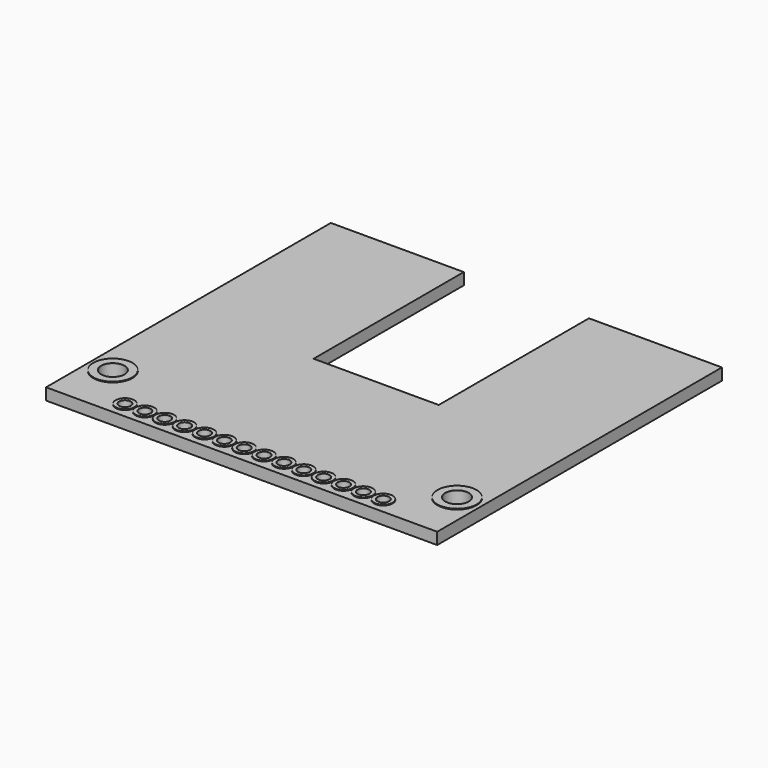
from build123d import *

# Parameters (mm, degrees)
F0_W      = 50
F0_H      = 86
F0_R      = 1.5
F1_DEPTH  = 1.5
F2_R      = 0.75
F3_DEPTH  = 1.501
F4_W      = 46
F4_H      = 34
F5_DEPTH  = 1.501
F6_W      = 50
F6_H      = 40.5
F7_DEPTH  = 25
F8_R      = 2.5
F8_R_2    = 1.5
F9_DEPTH  = 0.1
F10_R     = 1.2
F10_R_2   = 0.75
F11_DEPTH = 0.1
F12_W     = 16
F12_H     = 24
F13_DEPTH = 25


with BuildPart() as f1:
    # F0 (on Top) → F1 (new body)
    with BuildSketch(Plane.XY):
        Rectangle(F0_W, F0_H)
        with Locations((-22, -36.08)):
            Circle(F0_R, mode=Mode.SUBTRACT)
        with Locations((22, -36.08)):
            Circle(F0_R, mode=Mode.SUBTRACT)
        with Locations((-22, 40)):
            Circle(F0_R, mode=Mode.SUBTRACT)
        with Locations((22, 40)):
            Circle(F0_R, mode=Mode.SUBTRACT)
    extrude(amount=F1_DEPTH)

    # F2 (on face) → F3 (cut, through all)
    with BuildSketch(Plane.XY.offset(1.5)):
        with Locations((-16.51, -41)):
            Circle(F2_R)
        with Locations((-13.97, -41)):
            Circle(F2_R)
        with Locations((-11.43, -41)):
            Circle(F2_R)
        with Locations((-8.89, -41)):
            Circle(F2_R)
        with Locations((-6.35, -41)):
            Circle(F2_R)
        with Locations((-3.81, -41)):
            Circle(F2_R)
        with Locations((-1.27, -41)):
            Circle(F2_R)
        with Locations((1.27, -41)):
            Circle(F2_R)
        with Locations((3.81, -41)):
            Circle(F2_R)
        with Locations((6.35, -41)):
            Circle(F2_R)
        with Locations((8.89, -41)):
            Circle(F2_R)
        with Locations((11.43, -41)):
            Circle(F2_R)
        with Locations((13.97, -41)):
            Circle(F2_R)
        with Locations((16.51, -41)):
            Circle(F2_R)
        with Locations((-3.81, 40)):
            Circle(F2_R)
        with Locations((-1.27, 40)):
            Circle(F2_R)
        with Locations((1.27, 40)):
            Circle(F2_R)
        with Locations((3.81, 40)):
            Circle(F2_R)
    extrude(amount=-F3_DEPTH, mode=Mode.SUBTRACT)

    # F4 (on face) → F5 (cut, through all)
    with BuildSketch(Plane.XY.offset(1.5)):
        with Locations((0, 19.5)):
            Rectangle(F4_W, F4_H)
    extrude(amount=-F5_DEPTH, mode=Mode.SUBTRACT)

    # F6 (on face) → F7 (cut)
    with BuildSketch(Plane.XY.offset(1.5)):
        with Locations((0, 22.75)):
            Rectangle(F6_W, F6_H)
    extrude(amount=-F7_DEPTH, mode=Mode.SUBTRACT)

    # F12 (on face) → F13 (cut)
    with BuildSketch(Plane.XY.offset(1.5)):
        with Locations((0, -9.5)):
            Rectangle(F12_W, F12_H)
    extrude(amount=-F13_DEPTH, mode=Mode.SUBTRACT)


with BuildPart() as f9:
    # F8 (on face) → F9 (new body)
    with BuildSketch(Plane.XY.offset(1.5)):
        with Locations((-22, -36.08)):
            Circle(F8_R)
        with Locations((-22, -36.08)):
            Circle(F8_R_2, mode=Mode.SUBTRACT)
        with Locations((22, -36.08)):
            Circle(F8_R)
        with Locations((22, -36.08)):
            Circle(F8_R_2, mode=Mode.SUBTRACT)
    extrude(amount=F9_DEPTH)


with BuildPart() as f11:
    # F10 (on face) → F11 (new body)
    with BuildSketch(Plane.XY.offset(1.5)):
        with Locations((-16.51, -41)):
            Circle(F10_R)
        with Locations((-16.51, -41)):
            Circle(F10_R_2, mode=Mode.SUBTRACT)
        with Locations((-13.97, -41)):
            Circle(F10_R)
        with Locations((-13.97, -41)):
            Circle(F10_R_2, mode=Mode.SUBTRACT)
        with Locations((-11.43, -41)):
            Circle(F10_R)
        with Locations((-11.43, -41)):
            Circle(F10_R_2, mode=Mode.SUBTRACT)
        with Locations((-8.89, -41)):
            Circle(F10_R)
        with Locations((-8.89, -41)):
            Circle(F10_R_2, mode=Mode.SUBTRACT)
        with Locations((-6.35, -41)):
            Circle(F10_R)
        with Locations((-6.35, -41)):
            Circle(F10_R_2, mode=Mode.SUBTRACT)
        with Locations((-3.81, -41)):
            Circle(F10_R)
        with Locations((-3.81, -41)):
            Circle(F10_R_2, mode=Mode.SUBTRACT)
        with Locations((-1.27, -41)):
            Circle(F10_R)
        with Locations((-1.27, -41)):
            Circle(F10_R_2, mode=Mode.SUBTRACT)
        with Locations((1.27, -41)):
            Circle(F10_R)
        with Locations((1.27, -41)):
            Circle(F10_R_2, mode=Mode.SUBTRACT)
        with Locations((3.81, -41)):
            Circle(F10_R)
        with Locations((3.81, -41)):
            Circle(F10_R_2, mode=Mode.SUBTRACT)
        with Locations((6.35, -41)):
            Circle(F10_R)
        with Locations((6.35, -41)):
            Circle(F10_R_2, mode=Mode.SUBTRACT)
        with Locations((8.89, -41)):
            Circle(F10_R)
        with Locations((8.89, -41)):
            Circle(F10_R_2, mode=Mode.SUBTRACT)
        with Locations((11.43, -41)):
            Circle(F10_R)
        with Locations((11.43, -41)):
            Circle(F10_R_2, mode=Mode.SUBTRACT)
        with Locations((13.97, -41)):
            Circle(F10_R)
        with Locations((13.97, -41)):
            Circle(F10_R_2, mode=Mode.SUBTRACT)
        with Locations((16.51, -41)):
            Circle(F10_R)
        with Locations((16.51, -41)):
            Circle(F10_R_2, mode=Mode.SUBTRACT)
    extrude(amount=F11_DEPTH)


solid = Compound([f1.part, f9.part, f11.part])
